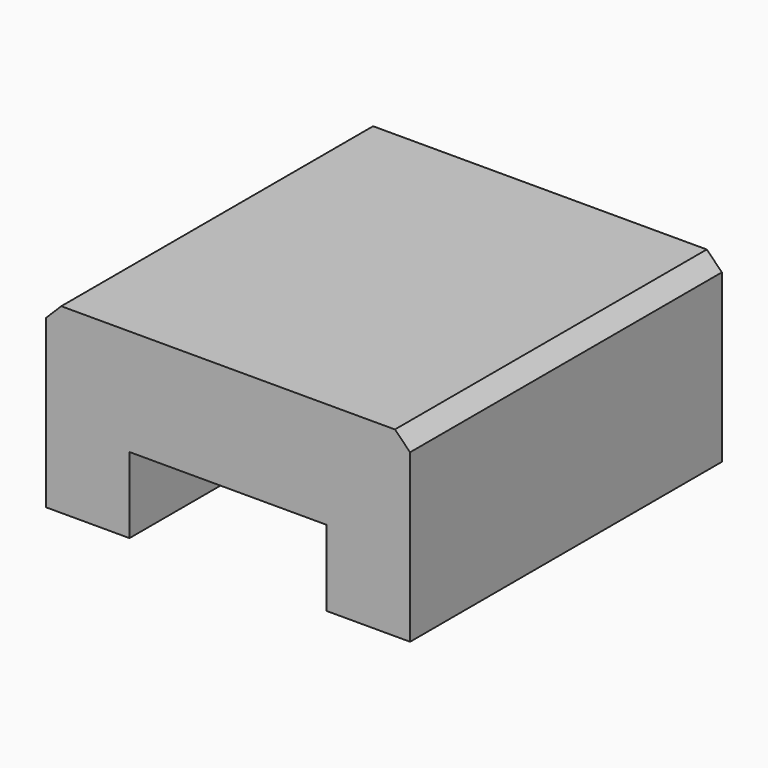
from build123d import *

# Parameters (mm, degrees)
F1_DEPTH = 1285
F2_W     = 650
F2_H     = 250
F3_DEPTH = 650


with BuildPart() as f1:
    # F0 (on Front) → F1 (new body)
    with BuildSketch(Plane.XZ):
        Polygon((-600, 0), (0, 0), (600, 0), (600, 550), (550, 600), (-550, 600), (-600, 550), align=None)
    extrude(amount=F1_DEPTH)

    # F2 (on face) → F3 (cut)
    with BuildSketch(Plane.XZ.offset(1285)):
        with Locations((0, 125)):
            Rectangle(F2_W, F2_H)
    extrude(amount=-F3_DEPTH, mode=Mode.SUBTRACT)


solid = f1.part
